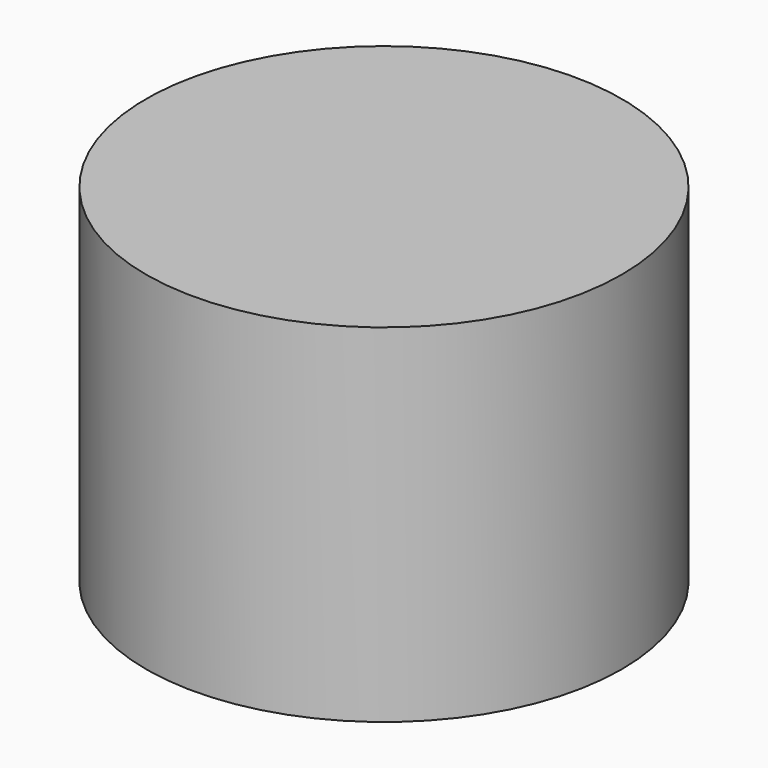
from build123d import *

# Parameters (mm, degrees)
SKETCH_R  = 6.847194
PAD_DEPTH = 10


with BuildPart() as part:
    # Sketch → Pad (new body)
    with BuildSketch(Plane.XY):
        with Locations((-2.937819, 2.108741)):
            Circle(SKETCH_R)
    extrude(amount=PAD_DEPTH)


solid = part.part
